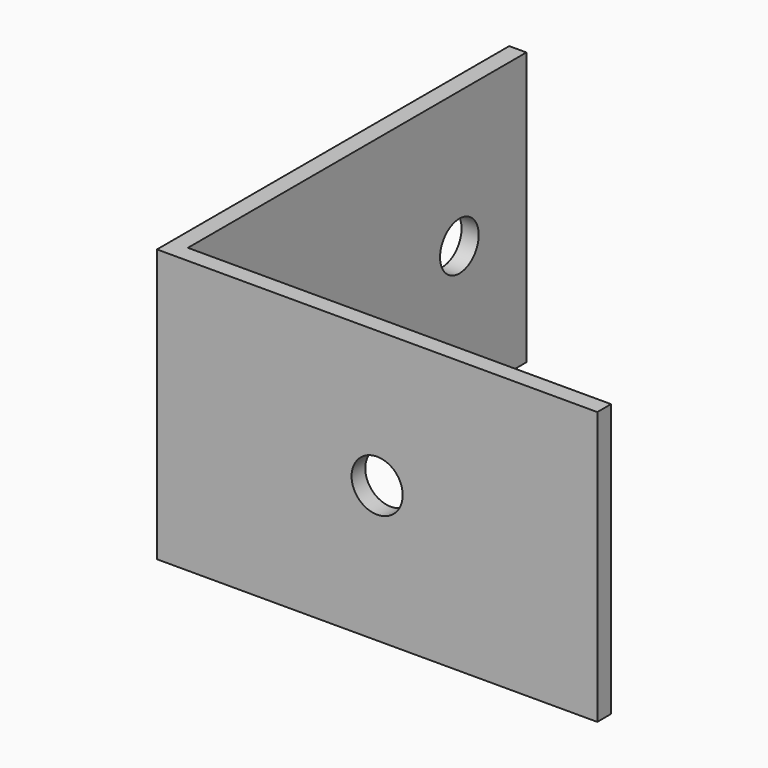
from build123d import *

# Parameters (mm, degrees)
F1_DEPTH = 25.4
F2_R     = 2.25
F3_DEPTH = 41.001
F4_R     = 2.38125
F5_DEPTH = 41.001


with BuildPart() as f1:
    # F0 (on Top) → F1 (new body)
    with BuildSketch(Plane.XY):
        Polygon((-29.149991, 41), (-30.749991, 41), (-30.749991, 0), (10.250009, 0), (10.250009, 1.6), (-29.149991, 1.6), align=None)
    extrude(amount=F1_DEPTH)

    # F2 (on face) → F3 (cut, through all)
    with BuildSketch(Plane(origin=(-30.749991, 0, 0), x_dir=(0, -1, 0), z_dir=(-1, 0, 0))):
        with Locations((-33.2, 12.7)):
            Circle(F2_R)
        with Locations((-7.8, 12.7)):
            Circle(F2_R)
    extrude(amount=-F3_DEPTH, mode=Mode.SUBTRACT)

    # F4 (on face) → F5 (cut, through all)
    with BuildSketch(Plane.XZ):
        with Locations((-10.249991, 12.7)):
            Circle(F4_R)
    extrude(amount=-F5_DEPTH, mode=Mode.SUBTRACT)


solid = f1.part
